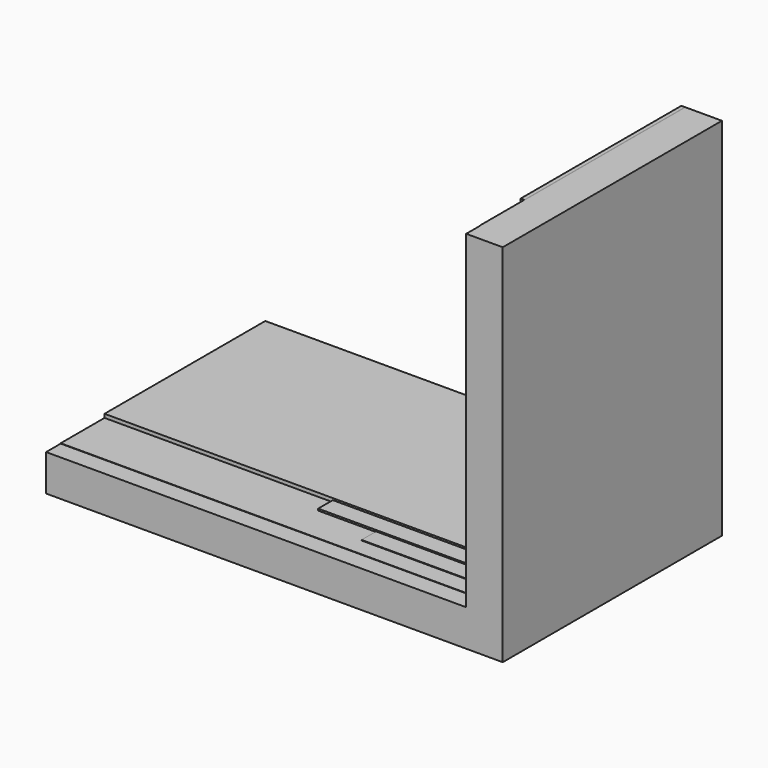
from build123d import *

# Parameters (mm, degrees)
F1_DEPTH = 150
F2_DEPTH = 140
F3_DEPTH = 130
F4_DEPTH = 120
F5_DEPTH = 110


with BuildPart() as f1:
    # F0 (on Front) → F1 (new body)
    with BuildSketch(Plane.XZ):
        Polygon((28.041143, -38.418245), (-201.958857, -38.418245), (-201.958857, -58.418245), (48.041143, -58.418245), (48.041143, 141.581755), (28.041143, 141.581755), align=None)
    extrude(amount=F1_DEPTH)


with BuildPart() as f2:
    # F0 (on Front) → F2 (new body)
    with BuildSketch(Plane.XZ):
        Polygon((-201.958857, -38.218245), (-201.958857, -38.418245), (28.041143, -38.418245), (28.041143, 141.581755), (27.841143, 141.581755), (27.841143, 37.173405), (27.841143, 14.727511), (27.841143, -38.218245), (-45.25356, -38.218245), (-76.987758, -38.218245), align=None)
    extrude(amount=F2_DEPTH)


with BuildPart() as f3:
    # F0 (on Front) → F3 (new body)
    with BuildSketch(Plane.XZ):
        Polygon((-45.25356, -37.918245), (-45.25356, -38.218245), (27.841143, -38.218245), (27.841143, 14.727511), (27.541143, 14.727511), (27.541143, -37.918245), align=None)
    extrude(amount=F3_DEPTH)


with BuildPart() as f4:
    # F0 (on Front) → F4 (new body)
    with BuildSketch(Plane.XZ):
        Polygon((-76.987758, -37.218245), (-76.987758, -38.218245), (-45.25356, -38.218245), (-45.25356, -37.918245), (27.541143, -37.918245), (27.541143, 14.727511), (27.841143, 14.727511), (27.841143, 37.173405), (26.841143, 37.173405), (26.841143, -37.218245), align=None)
    extrude(amount=F4_DEPTH)


with BuildPart() as f5:
    # F0 (on Front) → F5 (new body)
    with BuildSketch(Plane.XZ):
        Polygon((-201.958857, -36.218245), (-201.958857, -38.218245), (-76.987758, -38.218245), (-76.987758, -37.218245), (26.841143, -37.218245), (26.841143, 37.173405), (27.841143, 37.173405), (27.841143, 141.581755), (25.841143, 141.581755), (25.841143, -36.218245), align=None)
    extrude(amount=F5_DEPTH)


solid = Compound([f1.part, f2.part, f3.part, f4.part, f5.part])
